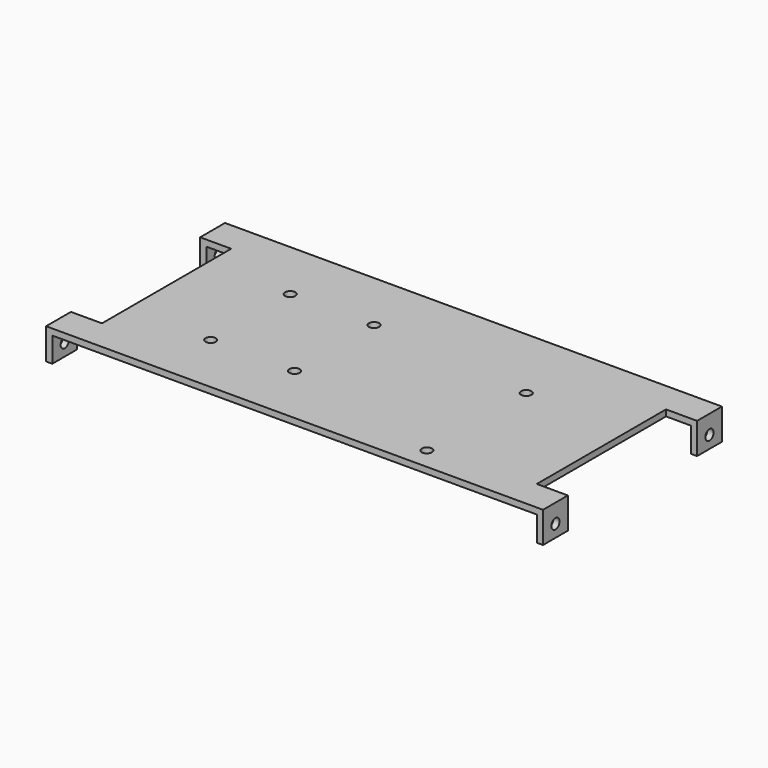
from build123d import *

# Parameters (mm, degrees)
BOX002_W      = 156
BOX002_H      = 72
BOX002_DEPTH  = 8
BOX001_W      = 10
BOX001_H      = 52
BOX001_DEPTH  = 10
BOX_W         = 160
BOX_H         = 72
BOX_DEPTH     = 10
SKETCH_R      = 1.65
HOLE_DEPTH    = 160.001
SKETCH001_R   = 1.65
HOLE001_DEPTH = 10.001


with BuildPart() as obj1:
    # Box002 → Box002 (new body)
    with BuildSketch(Plane(origin=(2, 0, 0), x_dir=(1, 0, 0), z_dir=(0, 0, 1))):
        with Locations((78, 36)):
            Rectangle(BOX002_W, BOX002_H)
    extrude(amount=BOX002_DEPTH)


with BuildPart() as obj2:
    # Box001 → Box001 (new body)
    with BuildSketch(Plane(origin=(0, 10, 0), x_dir=(1, 0, 0), z_dir=(0, 0, 1))):
        with Locations((5, 26)):
            Rectangle(BOX001_W, BOX001_H)
    extrude(amount=BOX001_DEPTH)


with BuildPart() as part_mirroring:
    # Part__Mirroring: instance of obj2
    add(obj2.part.mirror(Plane(origin=(80, 0, 0), x_dir=(0, -1, 0), z_dir=(1, 0, 0))))


with BuildPart() as body:
    # Box → Box (new body)
    with BuildSketch(Plane.XY):
        with Locations((80, 36)):
            Rectangle(BOX_W, BOX_H)
    extrude(amount=BOX_DEPTH)

    # Cut: cut obj2
    add(obj2.part, mode=Mode.SUBTRACT)

    # Cut001: cut Part__Mirroring
    add(part_mirroring.part, mode=Mode.SUBTRACT)

    # Cut002: cut obj1
    add(obj1.part, mode=Mode.SUBTRACT)

    # Sketch (on Face1 of BaseFeature) → Hole (cut, through all)
    with BuildSketch(Plane(origin=(0, 0, 0), x_dir=(0, -1, 0), z_dir=(-1, 0, 0))):
        with Locations((-5, 4)):
            Circle(SKETCH_R)
        with Locations((-67, 4)):
            Circle(SKETCH_R)
    extrude(amount=-HOLE_DEPTH, mode=Mode.SUBTRACT)

    # Sketch001 (on Face2 of Hole) → Hole001 (cut, through all)
    with BuildSketch(Plane.XY.offset(10)):
        with Locations((37, 20)):
            Circle(SKETCH001_R)
        with Locations((37, 52)):
            Circle(SKETCH001_R)
        with Locations((64, 52)):
            Circle(SKETCH001_R)
        with Locations((64, 20)):
            Circle(SKETCH001_R)
        with Locations((117, 47)):
            Circle(SKETCH001_R)
        with Locations((117, 7)):
            Circle(SKETCH001_R)
    extrude(amount=-HOLE001_DEPTH, mode=Mode.SUBTRACT)


solid = body.part
